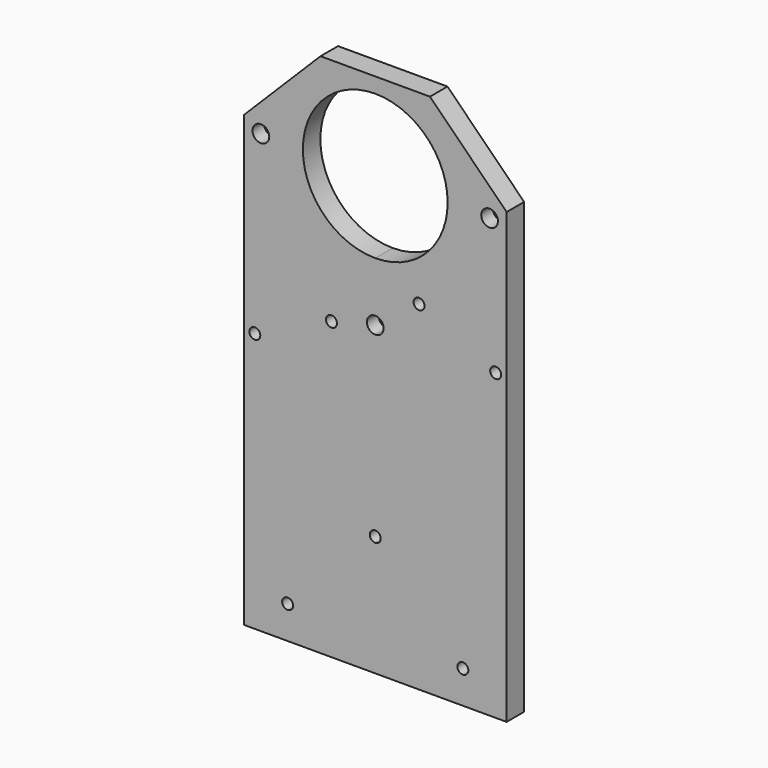
from build123d import *

# Parameters (mm, degrees)
F0_R     = 2.4257
F0_R_2   = 1.5875
F1_DEPTH = 6.35
F2_SIZE  = 2.159


with BuildPart() as f1:
    # F0 (on Front) → F1 (new body)
    with BuildSketch(Plane.XZ):
        with BuildLine():
            Line((-4.2893705368, 46.7110425234), (-20.1643705368, 46.7110425234))
            Line((-20.1643705368, 46.7110425234), (-42.3893705368, 24.4860425234))
            Line((-42.3893705368, 24.4860425234), (-42.3893705368, -19.9639574766))
            Line((-42.3893705368, -19.9639574766), (-18.5768705368, -19.9639574766))
            ThreePointArc((-18.5768705368, -19.9639574766), (-16.9893705368, -18.3764574766), (-15.4018705368, -19.9639574766))
            Line((-15.4018705368, -19.9639574766), (-4.2893705368, -19.9639574766))
            Line((-4.2893705368, -19.9639574766), (-4.2893705368, -19.2146574766))
            ThreePointArc((-4.2893705368, -19.2146574766), (-6.7150705368, -16.7889574766), (-4.2893705368, -14.3632574766))
            Line((-4.2893705368, -14.3632574766), (-4.2893705368, 0.3179425234))
            ThreePointArc((-4.2893705368, 0.3179425234), (-25.2824705368, 21.3110425234), (-4.2893705368, 42.3041425234))
            Line((-4.2893705368, 42.3041425234), (-4.2893705368, 46.7110425234))
        make_face()
        with Locations((-37.4490705368, 21.3110425234)):
            Circle(F0_R, mode=Mode.SUBTRACT)
        with BuildLine():
            Line((11.5856294632, 46.7110425234), (-4.2893705368, 46.7110425234))
            Line((-4.2893705368, 46.7110425234), (-4.2893705368, 42.3041425234))
            ThreePointArc((-4.2893705368, 42.3041425234), (10.5549928313, 36.1554058915), (16.7037294632, 21.3110425234))
            Line((16.7037294632, 21.3110425234), (26.4446294632, 21.3110425234))
            ThreePointArc((26.4446294632, 21.3110425234), (28.8703294632, 23.7367425234), (31.2960294632, 21.3110425234))
            Line((31.2960294632, 21.3110425234), (33.8106294632, 21.3110425234))
            Line((33.8106294632, 21.3110425234), (33.8106294632, 24.4860425234))
            Line((33.8106294632, 24.4860425234), (11.5856294632, 46.7110425234))
        make_face()
        with BuildLine():
            Line((-18.5768705368, -19.9639574766), (-42.3893705368, -19.9639574766))
            Line((-42.3893705368, -19.9639574766), (-42.3893705368, -30.2827074766))
            Line((-42.3893705368, -30.2827074766), (-42.3893705368, -105.6889574766))
            Line((-42.3893705368, -105.6889574766), (-29.6893705368, -105.6889574766))
            Line((-29.6893705368, -105.6889574766), (-4.2893705368, -105.6889574766))
            Line((-4.2893705368, -105.6889574766), (-4.2893705368, -72.3514574766))
            ThreePointArc((-4.2893705368, -72.3514574766), (-5.8768705368, -70.7639574766), (-4.2893705368, -69.1764574766))
            Line((-4.2893705368, -69.1764574766), (-4.2893705368, -19.9639574766))
            Line((-4.2893705368, -19.9639574766), (-15.4018705368, -19.9639574766))
            ThreePointArc((-15.4018705368, -19.9639574766), (-16.9893705368, -21.5514574766), (-18.5768705368, -19.9639574766))
        make_face()
        with BuildLine():
            ThreePointArc((-28.1018705368, -96.1639574766), (-28.5668385217, -97.2864894917), (-29.6893705368, -97.7514574766))
            ThreePointArc((-29.6893705368, -97.7514574766), (-30.8119025519, -95.0414254615), (-28.1018705368, -96.1639574766))
        make_face(mode=Mode.SUBTRACT)
        with BuildLine():
            ThreePointArc((-37.6268705368, -30.2827074766), (-39.2143705368, -31.8702074766), (-40.8018705368, -30.2827074766))
            ThreePointArc((-40.8018705368, -30.2827074766), (-39.2143705368, -28.6952074766), (-37.6268705368, -30.2827074766))
        make_face(mode=Mode.SUBTRACT)
        with BuildLine():
            Line((26.4446294632, 21.3110425234), (16.7037294632, 21.3110425234))
            ThreePointArc((16.7037294632, 21.3110425234), (10.5549928313, 6.4666791553), (-4.2893705368, 0.3179425234))
            Line((-4.2893705368, 0.3179425234), (-4.2893705368, -14.3632574766))
            ThreePointArc((-4.2893705368, -14.3632574766), (-2.5741416177, -15.0737285575), (-1.8636705368, -16.7889574766))
            ThreePointArc((-1.8636705368, -16.7889574766), (-2.5741416177, -18.5041863957), (-4.2893705368, -19.2146574766))
            Line((-4.2893705368, -19.2146574766), (-4.2893705368, -19.9639574766))
            Line((-4.2893705368, -19.9639574766), (-4.2893705368, -69.1764574766))
            ThreePointArc((-4.2893705368, -69.1764574766), (-3.1668385217, -69.6414254615), (-2.7018705368, -70.7639574766))
            ThreePointArc((-2.7018705368, -70.7639574766), (-3.1668385217, -71.8864894917), (-4.2893705368, -72.3514574766))
            Line((-4.2893705368, -72.3514574766), (-4.2893705368, -105.6889574766))
            Line((-4.2893705368, -105.6889574766), (21.1106294632, -105.6889574766))
            Line((21.1106294632, -105.6889574766), (33.8106294632, -105.6889574766))
            Line((33.8106294632, -105.6889574766), (33.8106294632, -17.5827074766))
            Line((33.8106294632, -17.5827074766), (33.8106294632, -7.2639574766))
            Line((33.8106294632, -7.2639574766), (33.8106294632, 21.3110425234))
            Line((33.8106294632, 21.3110425234), (31.2960294632, 21.3110425234))
            ThreePointArc((31.2960294632, 21.3110425234), (28.8703294632, 18.8853425234), (26.4446294632, 21.3110425234))
        make_face()
        with BuildLine():
            ThreePointArc((22.6981294632, -96.1639574766), (22.2331614783, -97.2864894917), (21.1106294632, -97.7514574766))
            ThreePointArc((21.1106294632, -97.7514574766), (19.9880974481, -95.0414254615), (22.6981294632, -96.1639574766))
        make_face(mode=Mode.SUBTRACT)
        with Locations((8.4106294632, -7.2639574766)):
            Circle(F0_R_2, mode=Mode.SUBTRACT)
        with Locations((30.6356294632, -17.5827074766)):
            Circle(F0_R_2, mode=Mode.SUBTRACT)
    extrude(amount=F1_DEPTH)

    # F2
    f2_edges = [f1.edges().sort_by_distance(p)[0] for p in [
        (26.444629, 0, 21.311043),
        (-4.289371, 0, -19.214657),
        (-39.874771, 0, 21.311043),
    ]]
    chamfer(f2_edges, length=F2_SIZE)


solid = f1.part
